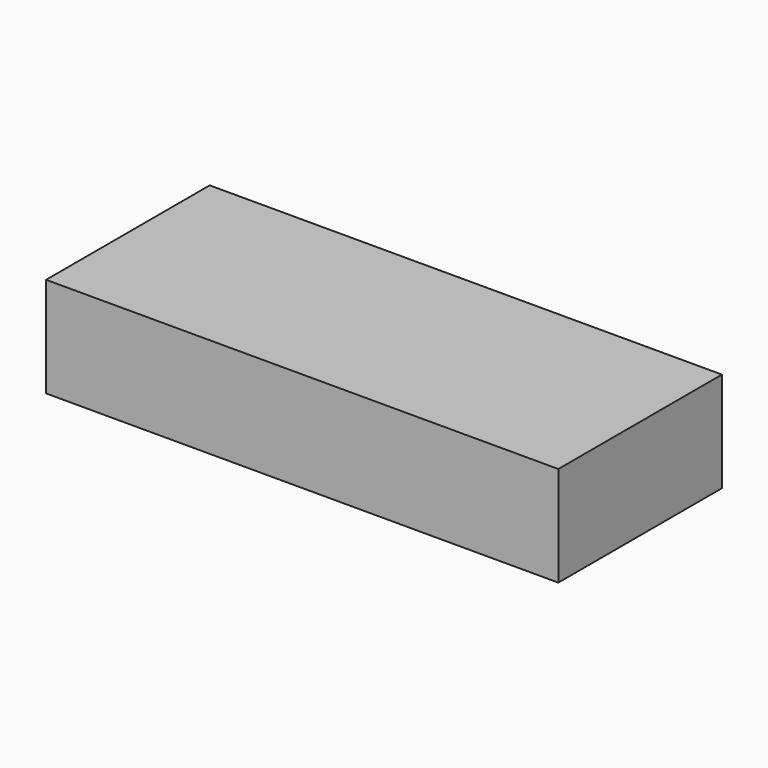
from build123d import *

# Parameters (mm, degrees)
SKETCH_W  = 48.768
SKETCH_H  = 19.4691
PAD_DEPTH = 9.525


with BuildPart() as part:
    # Sketch → Pad (new body)
    with BuildSketch(Plane.XY):
        Rectangle(SKETCH_W, SKETCH_H)
    extrude(amount=PAD_DEPTH)


solid = part.part
